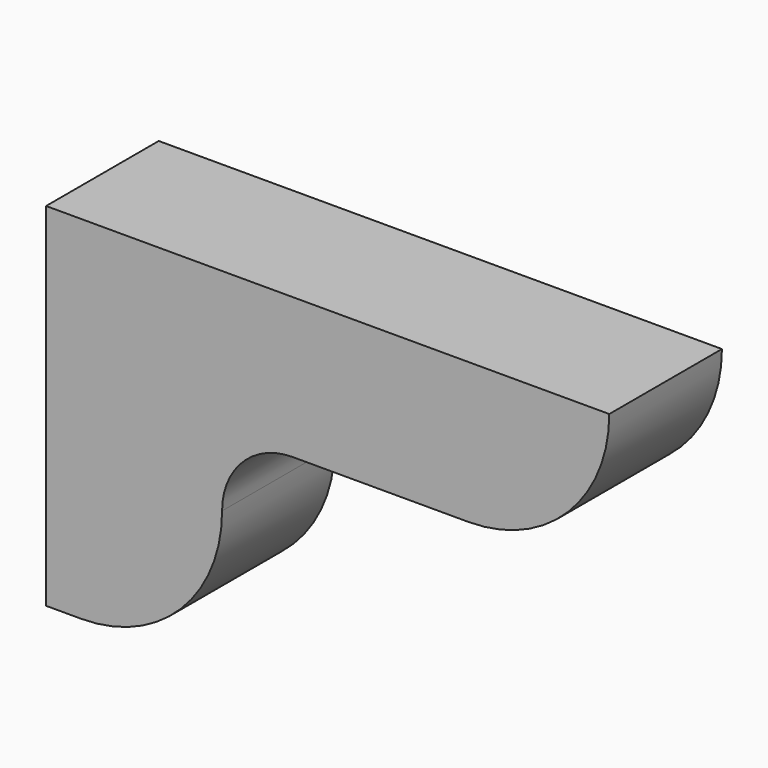
from build123d import *

# Parameters (mm, degrees)
F1_DEPTH = 25.4


with BuildPart() as f1:
    # F0 (on Front) → F1 (new body)
    with BuildSketch(Plane.XZ):
        with BuildLine():
            Line((101.6, 0), (0, 0))
            Line((0, 0), (0, -63.5))
            Line((0, -63.5), (6.35, -63.5))
            ThreePointArc((6.35, -63.5), (24.310512, -56.060512), (31.75, -38.1))
            ThreePointArc((31.75, -38.1), (35.469744, -29.119744), (44.45, -25.4))
            Line((44.45, -25.4), (76.2, -25.4))
            ThreePointArc((76.2, -25.4), (94.160512, -17.960512), (101.6, 0))
        make_face()
    extrude(amount=-F1_DEPTH)


solid = f1.part
